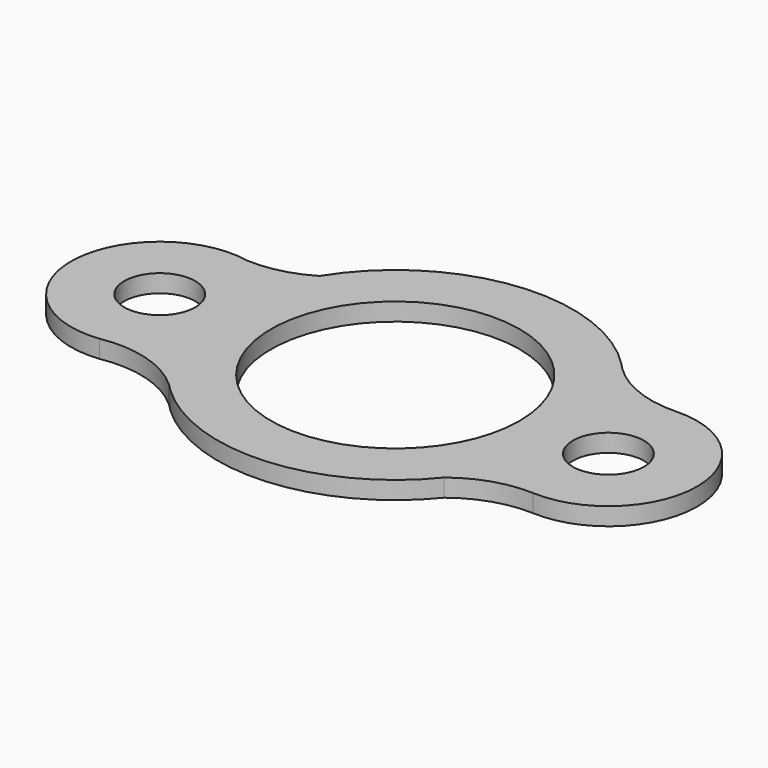
from build123d import *

# Parameters (mm, degrees)
F0_R     = 12.7
F0_R_2   = 44.45
F1_DEPTH = 6.35


with BuildPart() as f1:
    # F0 (on Top) → F1 (new body)
    with BuildSketch(Plane.XY):
        with BuildLine():
            ThreePointArc((-78.214847, -34.462572), (-61.091134, -35.359671), (-46.095031, -43.674914))
            ThreePointArc((-46.095031, -43.674914), (-44.727285, -44.969636), (-43.42519, -46.330367))
            ThreePointArc((-43.42519, -46.330367), (4.393779, -63.347807), (49.405516, -39.891665))
            ThreePointArc((49.405516, -39.891665), (61.271133, -33.539825), (74.60493, -31.709908))
            ThreePointArc((74.60493, -31.709908), (107.949523, -0.174093), (74.952768, 31.725493))
            ThreePointArc((74.952768, 31.725493), (59.918318, 34.310355), (47.103013, 42.585869))
            ThreePointArc((47.103013, 42.585869), (46.088419, 43.617938), (45.113755, 44.687796))
            ThreePointArc((45.113755, 44.687796), (-7.094296, 63.102464), (-53.910206, 33.555024))
            ThreePointArc((-53.910206, 33.555024), (-64.305996, 29.254689), (-75.504467, 28.177844))
            ThreePointArc((-75.504467, 28.177844), (-113.602257, -1.552553), (-78.214847, -34.462572))
        make_face()
        with Locations((-81.881937, -2.925055)):
            Circle(F0_R, mode=Mode.SUBTRACT)
        Circle(F0_R_2, mode=Mode.SUBTRACT)
        with BuildLine():
            ThreePointArc((88.9, 0), (76.2, -12.7), (63.5, 0))
            ThreePointArc((63.5, 0), (76.2, 12.7), (88.9, 0))
        make_face(mode=Mode.SUBTRACT)
    extrude(amount=F1_DEPTH)


solid = f1.part
